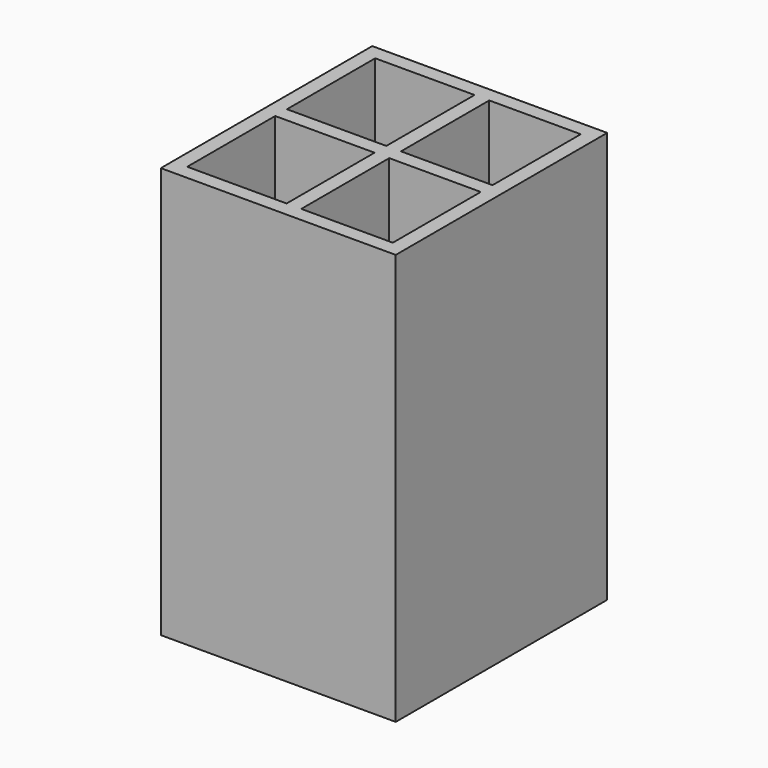
from build123d import *

# Parameters (mm, degrees)
F0_W     = 50.8
F0_H     = 57.15
F1_DEPTH = 88.9
F2_W     = 21.484667
F2_H     = 23.853129
F2_W_2   = 19.790333
F2_H_2   = 23.771871
F3_DEPTH = 85.725


with BuildPart() as f1:
    # F0 (on Top) → F1 (new body)
    with BuildSketch(Plane.XY):
        with Locations((-0.847167, 0.040629)):
            Rectangle(F0_W, F0_H)
    extrude(amount=F1_DEPTH)

    # F2 (on face) → F3 (cut)
    with BuildSketch(Plane.XY.offset(88.9)):
        with Locations((-12.329833, 13.514064)):
            Rectangle(F2_W, F2_H)
        with Locations((11.482666, 13.514064)):
            Rectangle(F2_W_2, F2_H)
        with Locations((11.482666, -13.473435)):
            Rectangle(F2_W_2, F2_H_2)
        with Locations((-12.329833, -13.473435)):
            Rectangle(F2_W, F2_H_2)
    extrude(amount=-F3_DEPTH, mode=Mode.SUBTRACT)


solid = f1.part
